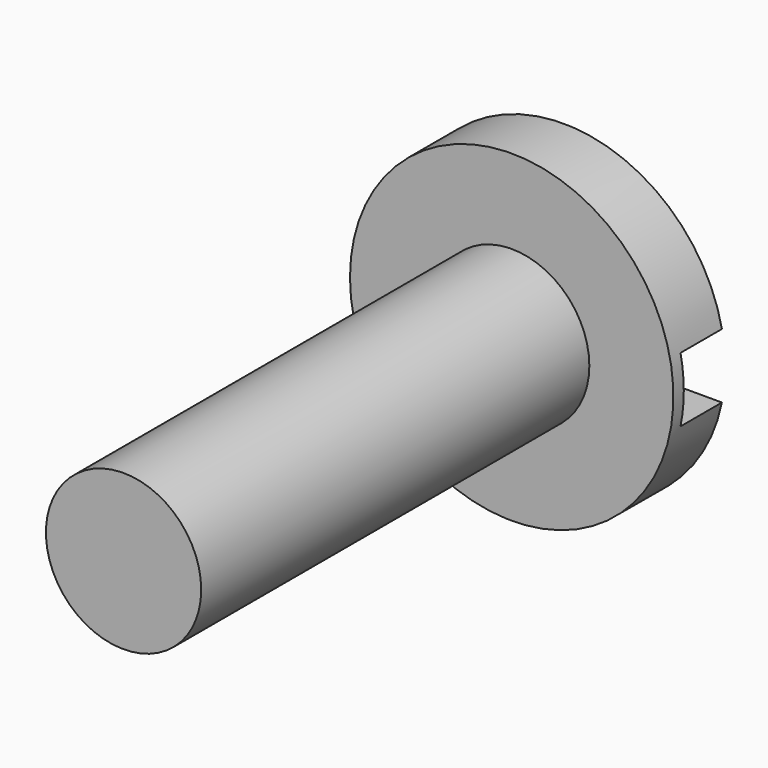
from build123d import *

# Parameters (mm, degrees)
F0_R     = 1.524
F1_DEPTH = 9.525
F2_R     = 3.175
F3_DEPTH = 1.27
F5_DEPTH = 1.016


with BuildPart() as f1:
    # F0 (on Front) → F1 (new body)
    with BuildSketch(Plane.XZ):
        Circle(F0_R)
    extrude(amount=F1_DEPTH)

    # F2 (on face) → F3 (join)
    with BuildSketch(Plane(origin=(0, 0, 0), x_dir=(-1, 0, 0), z_dir=(0, 1, 0))):
        Circle(F2_R)
    extrude(amount=F3_DEPTH)

    # F4 (on face) → F5 (cut)
    with BuildSketch(Plane(origin=(0, 1.27, 0), x_dir=(-1, 0, 0), z_dir=(0, 1, 0))):
        with BuildLine():
            ThreePointArc((3.175, 0), (3.1589222858, 0.3191159544), (3.1108519733, 0.635))
            Line((3.1108519733, 0.635), (-3.1108519733, 0.635))
            ThreePointArc((-3.1108519733, 0.635), (-3.1589222858, 0.3191159544), (-3.175, 0))
            ThreePointArc((-3.175, 0), (-3.1589222858, -0.3191159544), (-3.1108519733, -0.635))
            Line((-3.1108519733, -0.635), (3.1108519733, -0.635))
            ThreePointArc((3.1108519733, -0.635), (3.1589222858, -0.3191159544), (3.175, 0))
        make_face()
    extrude(amount=-F5_DEPTH, mode=Mode.SUBTRACT)


solid = f1.part
